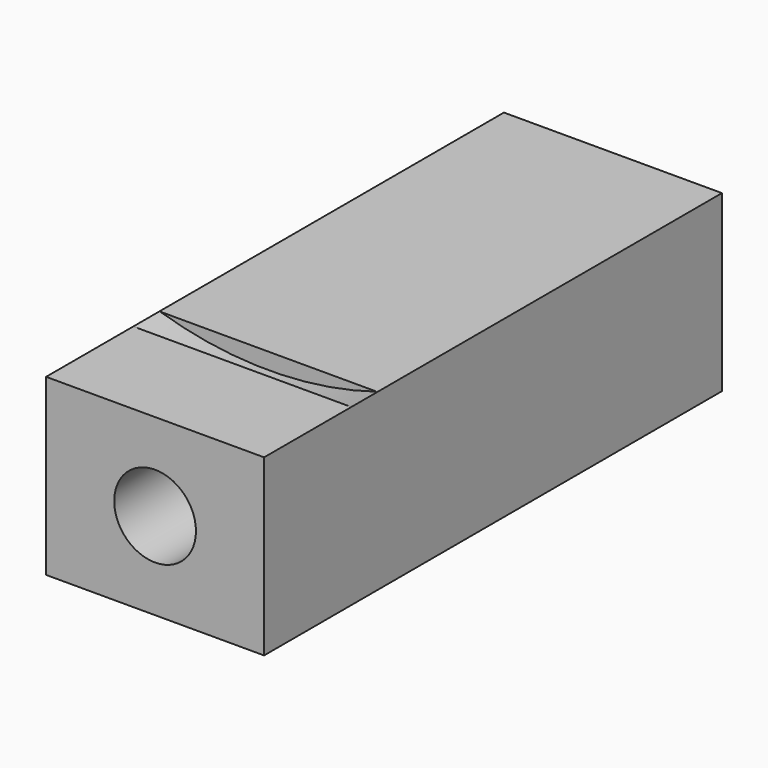
from build123d import *

# Parameters (mm, degrees)
F0_W     = 40
F0_H     = 32
F1_DEPTH = 105
F2_R     = 7.5
F3_DEPTH = 75
F4_R     = 3
F5_DEPTH = 105.001
F7_R     = 67.5
F8_DEPTH = 6


with BuildPart() as f1:
    # F0 (on Front) → F1 (new body)
    with BuildSketch(Plane.XZ):
        with Locations((-20, 16)):
            Rectangle(F0_W, F0_H)
    extrude(amount=-F1_DEPTH)

    # F2 (on face) → F3 (cut)
    with BuildSketch(Plane.XZ):
        with Locations((-20, 16)):
            Circle(F2_R)
    extrude(amount=-F3_DEPTH, mode=Mode.SUBTRACT)

    # F4 (on Front) → F5 (cut, through all)
    with BuildSketch(Plane.XZ):
        with Locations((-20, 11.5)):
            Circle(F4_R)
    extrude(amount=-F5_DEPTH, mode=Mode.SUBTRACT)

    # F7 (on offset) → F8 (cut)
    with BuildSketch(Plane.XZ.offset(-20)):
        with Locations((-20, 96.5)):
            Circle(F7_R)
    extrude(amount=-F8_DEPTH, mode=Mode.SUBTRACT)


solid = f1.part
